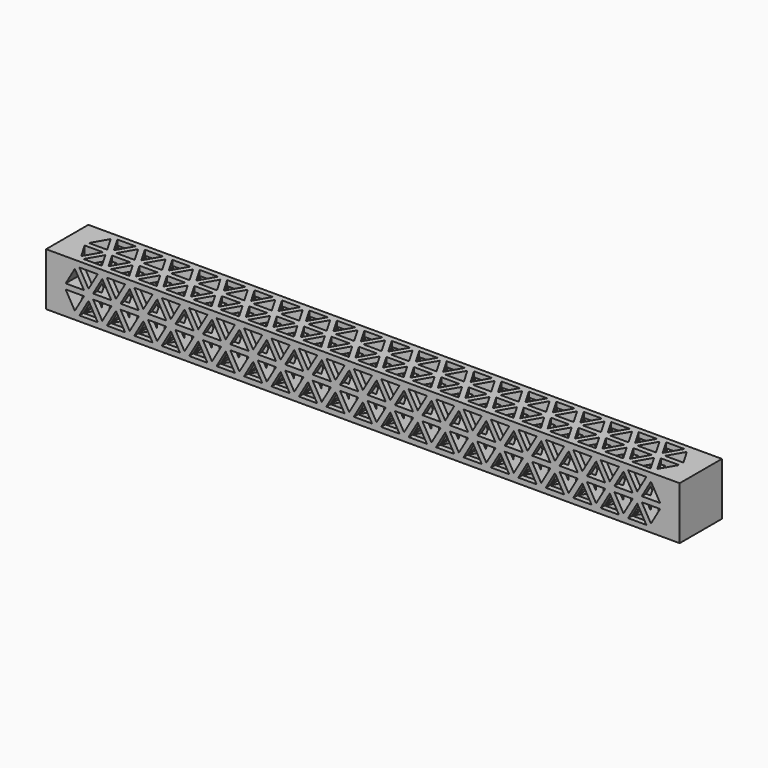
from build123d import *

# Parameters (mm, degrees)
F0_W     = 25.4
F0_H     = 25.4
F1_DEPTH = 152.4
F3_DEPTH = 25.401
F4_DEPTH = 25.4
F5_ANGLE = -90


with BuildPart() as f1:
    # F0 (on Right) → F1 (new body, symmetric)
    with BuildSketch(Plane.YZ):
        Rectangle(F0_W, F0_H)
    extrude(amount=F1_DEPTH, both=True)

    # F2 (on face) → F3 (cut, through all)
    with BuildSketch(Plane.XZ.offset(12.7)):
        Polygon((-10.9985226281, -1.27), (-6.5991135768, -8.89), (-2.1997045256, -1.27), align=None)
        Polygon((4.3994090512, 10.16), (-4.3994090512, 10.16), (0, 2.54), align=None)
        Polygon((10.9985226281, 1.27), (6.5991135768, 8.89), (2.1997045256, 1.27), align=None)
        Polygon((-6.5991135768, 8.89), (-10.9985226281, 1.27), (-2.1997045256, 1.27), align=None)
        Polygon((6.5991135768, -8.89), (10.9985226281, -1.27), (2.1997045256, -1.27), align=None)
        Polygon((-4.3994090512, -10.16), (4.3994090512, -10.16), (0, -2.54), align=None)
        Polygon((-19.7973407305, 8.89), (-24.1967497817, 1.27), (-15.3979316793, 1.27), align=None)
        Polygon((-19.7973407305, -8.89), (-15.3979316793, -1.27), (-24.1967497817, -1.27), align=None)
        Polygon((-8.7988181024, -10.16), (-13.1982271537, -2.54), (-17.5976362049, -10.16), align=None)
        Polygon((-13.1982271537, 2.54), (-8.7988181024, 10.16), (-17.5976362049, 10.16), align=None)
        Polygon((-32.9955678842, 8.89), (-37.3949769354, 1.27), (-28.596158833, 1.27), align=None)
        Polygon((-32.9955678842, -8.89), (-28.596158833, -1.27), (-37.3949769354, -1.27), align=None)
        Polygon((-21.9970452561, -10.16), (-26.3964543073, -2.54), (-30.7958633586, -10.16), align=None)
        Polygon((-26.3964543073, 2.54), (-21.9970452561, 10.16), (-30.7958633586, 10.16), align=None)
        Polygon((-46.1937950379, 8.89), (-50.5932040891, 1.27), (-41.7943859866, 1.27), align=None)
        Polygon((-46.1937950379, -8.89), (-41.7943859866, -1.27), (-50.5932040891, -1.27), align=None)
        Polygon((-35.1952724098, -10.16), (-39.594681461, -2.54), (-43.9940905122, -10.16), align=None)
        Polygon((-39.594681461, 2.54), (-35.1952724098, 10.16), (-43.9940905122, 10.16), align=None)
        Polygon((-59.3920221915, 8.89), (-63.7914312428, 1.27), (-54.9926131403, 1.27), align=None)
        Polygon((-59.3920221915, -8.89), (-54.9926131403, -1.27), (-63.7914312428, -1.27), align=None)
        Polygon((-48.3934995635, -10.16), (-52.7929086147, -2.54), (-57.1923176659, -10.16), align=None)
        Polygon((-52.7929086147, 2.54), (-48.3934995635, 10.16), (-57.1923176659, 10.16), align=None)
        Polygon((-72.5902493452, 8.89), (-76.9896583964, 1.27), (-68.190840294, 1.27), align=None)
        Polygon((-72.5902493452, -8.89), (-68.190840294, -1.27), (-76.9896583964, -1.27), align=None)
        Polygon((-61.5917267171, -10.16), (-65.9911357684, -2.54), (-70.3905448196, -10.16), align=None)
        Polygon((-65.9911357684, 2.54), (-61.5917267171, 10.16), (-70.3905448196, 10.16), align=None)
        Polygon((-85.7884764989, 8.89), (-90.1878855501, 1.27), (-81.3890674477, 1.27), align=None)
        Polygon((-85.7884764989, -8.89), (-81.3890674477, -1.27), (-90.1878855501, -1.27), align=None)
        Polygon((-74.7899538708, -10.16), (-79.189362922, -2.54), (-83.5887719733, -10.16), align=None)
        Polygon((-79.189362922, 2.54), (-74.7899538708, 10.16), (-83.5887719733, 10.16), align=None)
        Polygon((-98.9867036526, 8.89), (-103.3861127038, 1.27), (-94.5872946013, 1.27), align=None)
        Polygon((-98.9867036526, -8.89), (-94.5872946013, -1.27), (-103.3861127038, -1.27), align=None)
        Polygon((-87.9881810245, -10.16), (-92.3875900757, -2.54), (-96.7869991269, -10.16), align=None)
        Polygon((-92.3875900757, 2.54), (-87.9881810245, 10.16), (-96.7869991269, 10.16), align=None)
        Polygon((-112.1849308062, 8.89), (-116.5843398575, 1.27), (-107.785521755, 1.27), align=None)
        Polygon((-112.1849308062, -8.89), (-107.785521755, -1.27), (-116.5843398575, -1.27), align=None)
        Polygon((-101.1864081782, -10.16), (-105.5858172294, -2.54), (-109.9852262806, -10.16), align=None)
        Polygon((-105.5858172294, 2.54), (-101.1864081782, 10.16), (-109.9852262806, 10.16), align=None)
        Polygon((-125.3831579599, 8.89), (-129.7825670111, 1.27), (-120.9837489087, 1.27), align=None)
        Polygon((-125.3831579599, -8.89), (-120.9837489087, -1.27), (-129.7825670111, -1.27), align=None)
        Polygon((-114.3846353318, -10.16), (-118.7840443831, -2.54), (-123.1834534343, -10.16), align=None)
        Polygon((-118.7840443831, 2.54), (-114.3846353318, 10.16), (-123.1834534343, 10.16), align=None)
        Polygon((-138.5813851136, 8.89), (-142.9807941648, 1.27), (-134.1819760624, 1.27), align=None)
        Polygon((-138.5813851136, -8.89), (-134.1819760624, -1.27), (-142.9807941648, -1.27), align=None)
        Polygon((-127.5828624855, -10.16), (-131.9822715367, -2.54), (-136.381680588, -10.16), align=None)
        Polygon((-131.9822715367, 2.54), (-127.5828624855, 10.16), (-136.381680588, 10.16), align=None)
        Polygon((17.5976362049, 10.16), (8.7988181024, 10.16), (13.1982271537, 2.54), align=None)
        Polygon((17.5976362049, -10.16), (13.1982271537, -2.54), (8.7988181024, -10.16), align=None)
        Polygon((19.7973407305, -8.89), (24.1967497817, -1.27), (15.3979316793, -1.27), align=None)
        Polygon((19.7973407305, 8.89), (15.3979316793, 1.27), (24.1967497817, 1.27), align=None)
        Polygon((30.7958633586, 10.16), (21.9970452561, 10.16), (26.3964543073, 2.54), align=None)
        Polygon((30.7958633586, -10.16), (26.3964543073, -2.54), (21.9970452561, -10.16), align=None)
        Polygon((32.9955678842, -8.89), (37.3949769354, -1.27), (28.596158833, -1.27), align=None)
        Polygon((32.9955678842, 8.89), (28.596158833, 1.27), (37.3949769354, 1.27), align=None)
        Polygon((43.9940905122, 10.16), (35.1952724098, 10.16), (39.594681461, 2.54), align=None)
        Polygon((43.9940905122, -10.16), (39.594681461, -2.54), (35.1952724098, -10.16), align=None)
        Polygon((46.1937950379, -8.89), (50.5932040891, -1.27), (41.7943859866, -1.27), align=None)
        Polygon((46.1937950379, 8.89), (41.7943859866, 1.27), (50.5932040891, 1.27), align=None)
        Polygon((57.1923176659, 10.16), (48.3934995635, 10.16), (52.7929086147, 2.54), align=None)
        Polygon((57.1923176659, -10.16), (52.7929086147, -2.54), (48.3934995635, -10.16), align=None)
        Polygon((59.3920221915, -8.89), (63.7914312428, -1.27), (54.9926131403, -1.27), align=None)
        Polygon((59.3920221915, 8.89), (54.9926131403, 1.27), (63.7914312428, 1.27), align=None)
        Polygon((70.3905448196, 10.16), (61.5917267171, 10.16), (65.9911357684, 2.54), align=None)
        Polygon((70.3905448196, -10.16), (65.9911357684, -2.54), (61.5917267171, -10.16), align=None)
        Polygon((72.5902493452, -8.89), (76.9896583964, -1.27), (68.190840294, -1.27), align=None)
        Polygon((72.5902493452, 8.89), (68.190840294, 1.27), (76.9896583964, 1.27), align=None)
        Polygon((83.5887719733, 10.16), (74.7899538708, 10.16), (79.189362922, 2.54), align=None)
        Polygon((83.5887719733, -10.16), (79.189362922, -2.54), (74.7899538708, -10.16), align=None)
        Polygon((85.7884764989, -8.89), (90.1878855501, -1.27), (81.3890674477, -1.27), align=None)
        Polygon((85.7884764989, 8.89), (81.3890674477, 1.27), (90.1878855501, 1.27), align=None)
        Polygon((96.7869991269, 10.16), (87.9881810245, 10.16), (92.3875900757, 2.54), align=None)
        Polygon((96.7869991269, -10.16), (92.3875900757, -2.54), (87.9881810245, -10.16), align=None)
        Polygon((98.9867036526, -8.89), (103.3861127038, -1.27), (94.5872946013, -1.27), align=None)
        Polygon((98.9867036526, 8.89), (94.5872946013, 1.27), (103.3861127038, 1.27), align=None)
        Polygon((109.9852262806, 10.16), (101.1864081782, 10.16), (105.5858172294, 2.54), align=None)
        Polygon((109.9852262806, -10.16), (105.5858172294, -2.54), (101.1864081782, -10.16), align=None)
        Polygon((112.1849308062, -8.89), (116.5843398575, -1.27), (107.785521755, -1.27), align=None)
        Polygon((112.1849308062, 8.89), (107.785521755, 1.27), (116.5843398575, 1.27), align=None)
        Polygon((123.1834534343, 10.16), (114.3846353318, 10.16), (118.7840443831, 2.54), align=None)
        Polygon((123.1834534343, -10.16), (118.7840443831, -2.54), (114.3846353318, -10.16), align=None)
        Polygon((125.3831579599, -8.89), (129.7825670111, -1.27), (120.9837489087, -1.27), align=None)
        Polygon((125.3831579599, 8.89), (120.9837489087, 1.27), (129.7825670111, 1.27), align=None)
        Polygon((136.381680588, 10.16), (127.5828624855, 10.16), (131.9822715367, 2.54), align=None)
        Polygon((136.381680588, -10.16), (131.9822715367, -2.54), (127.5828624855, -10.16), align=None)
        Polygon((138.5813851136, -8.89), (142.9807941648, -1.27), (134.1819760624, -1.27), align=None)
        Polygon((138.5813851136, 8.89), (134.1819760624, 1.27), (142.9807941648, 1.27), align=None)
    extrude(amount=-F3_DEPTH, mode=Mode.SUBTRACT)


with BuildPart() as f4:
    # F2 (on face) → F4 (new body)
    with BuildSketch(Plane.XZ.offset(12.7)):
        Polygon((-10.9985226281, -1.27), (-6.5991135768, -8.89), (-2.1997045256, -1.27), align=None)
        Polygon((4.3994090512, 10.16), (-4.3994090512, 10.16), (0, 2.54), align=None)
        Polygon((10.9985226281, 1.27), (6.5991135768, 8.89), (2.1997045256, 1.27), align=None)
        Polygon((-6.5991135768, 8.89), (-10.9985226281, 1.27), (-2.1997045256, 1.27), align=None)
        Polygon((6.5991135768, -8.89), (10.9985226281, -1.27), (2.1997045256, -1.27), align=None)
        Polygon((-4.3994090512, -10.16), (4.3994090512, -10.16), (0, -2.54), align=None)
        Polygon((-19.7973407305, 8.89), (-24.1967497817, 1.27), (-15.3979316793, 1.27), align=None)
        Polygon((-19.7973407305, -8.89), (-15.3979316793, -1.27), (-24.1967497817, -1.27), align=None)
        Polygon((-8.7988181024, -10.16), (-13.1982271537, -2.54), (-17.5976362049, -10.16), align=None)
        Polygon((-13.1982271537, 2.54), (-8.7988181024, 10.16), (-17.5976362049, 10.16), align=None)
        Polygon((-32.9955678842, 8.89), (-37.3949769354, 1.27), (-28.596158833, 1.27), align=None)
        Polygon((-32.9955678842, -8.89), (-28.596158833, -1.27), (-37.3949769354, -1.27), align=None)
        Polygon((-21.9970452561, -10.16), (-26.3964543073, -2.54), (-30.7958633586, -10.16), align=None)
        Polygon((-26.3964543073, 2.54), (-21.9970452561, 10.16), (-30.7958633586, 10.16), align=None)
        Polygon((-46.1937950379, 8.89), (-50.5932040891, 1.27), (-41.7943859866, 1.27), align=None)
        Polygon((-46.1937950379, -8.89), (-41.7943859866, -1.27), (-50.5932040891, -1.27), align=None)
        Polygon((-35.1952724098, -10.16), (-39.594681461, -2.54), (-43.9940905122, -10.16), align=None)
        Polygon((-39.594681461, 2.54), (-35.1952724098, 10.16), (-43.9940905122, 10.16), align=None)
        Polygon((-59.3920221915, 8.89), (-63.7914312428, 1.27), (-54.9926131403, 1.27), align=None)
        Polygon((-59.3920221915, -8.89), (-54.9926131403, -1.27), (-63.7914312428, -1.27), align=None)
        Polygon((-48.3934995635, -10.16), (-52.7929086147, -2.54), (-57.1923176659, -10.16), align=None)
        Polygon((-52.7929086147, 2.54), (-48.3934995635, 10.16), (-57.1923176659, 10.16), align=None)
        Polygon((-72.5902493452, 8.89), (-76.9896583964, 1.27), (-68.190840294, 1.27), align=None)
        Polygon((-72.5902493452, -8.89), (-68.190840294, -1.27), (-76.9896583964, -1.27), align=None)
        Polygon((-61.5917267171, -10.16), (-65.9911357684, -2.54), (-70.3905448196, -10.16), align=None)
        Polygon((-65.9911357684, 2.54), (-61.5917267171, 10.16), (-70.3905448196, 10.16), align=None)
        Polygon((-85.7884764989, 8.89), (-90.1878855501, 1.27), (-81.3890674477, 1.27), align=None)
        Polygon((-85.7884764989, -8.89), (-81.3890674477, -1.27), (-90.1878855501, -1.27), align=None)
        Polygon((-74.7899538708, -10.16), (-79.189362922, -2.54), (-83.5887719733, -10.16), align=None)
        Polygon((-79.189362922, 2.54), (-74.7899538708, 10.16), (-83.5887719733, 10.16), align=None)
        Polygon((-98.9867036526, 8.89), (-103.3861127038, 1.27), (-94.5872946013, 1.27), align=None)
        Polygon((-98.9867036526, -8.89), (-94.5872946013, -1.27), (-103.3861127038, -1.27), align=None)
        Polygon((-87.9881810245, -10.16), (-92.3875900757, -2.54), (-96.7869991269, -10.16), align=None)
        Polygon((-92.3875900757, 2.54), (-87.9881810245, 10.16), (-96.7869991269, 10.16), align=None)
        Polygon((-112.1849308062, 8.89), (-116.5843398575, 1.27), (-107.785521755, 1.27), align=None)
        Polygon((-112.1849308062, -8.89), (-107.785521755, -1.27), (-116.5843398575, -1.27), align=None)
        Polygon((-101.1864081782, -10.16), (-105.5858172294, -2.54), (-109.9852262806, -10.16), align=None)
        Polygon((-105.5858172294, 2.54), (-101.1864081782, 10.16), (-109.9852262806, 10.16), align=None)
        Polygon((-125.3831579599, 8.89), (-129.7825670111, 1.27), (-120.9837489087, 1.27), align=None)
        Polygon((-125.3831579599, -8.89), (-120.9837489087, -1.27), (-129.7825670111, -1.27), align=None)
        Polygon((-114.3846353318, -10.16), (-118.7840443831, -2.54), (-123.1834534343, -10.16), align=None)
        Polygon((-118.7840443831, 2.54), (-114.3846353318, 10.16), (-123.1834534343, 10.16), align=None)
        Polygon((-138.5813851136, 8.89), (-142.9807941648, 1.27), (-134.1819760624, 1.27), align=None)
        Polygon((-138.5813851136, -8.89), (-134.1819760624, -1.27), (-142.9807941648, -1.27), align=None)
        Polygon((-127.5828624855, -10.16), (-131.9822715367, -2.54), (-136.381680588, -10.16), align=None)
        Polygon((-131.9822715367, 2.54), (-127.5828624855, 10.16), (-136.381680588, 10.16), align=None)
        Polygon((17.5976362049, 10.16), (8.7988181024, 10.16), (13.1982271537, 2.54), align=None)
        Polygon((17.5976362049, -10.16), (13.1982271537, -2.54), (8.7988181024, -10.16), align=None)
        Polygon((19.7973407305, -8.89), (24.1967497817, -1.27), (15.3979316793, -1.27), align=None)
        Polygon((19.7973407305, 8.89), (15.3979316793, 1.27), (24.1967497817, 1.27), align=None)
        Polygon((30.7958633586, 10.16), (21.9970452561, 10.16), (26.3964543073, 2.54), align=None)
        Polygon((30.7958633586, -10.16), (26.3964543073, -2.54), (21.9970452561, -10.16), align=None)
        Polygon((32.9955678842, -8.89), (37.3949769354, -1.27), (28.596158833, -1.27), align=None)
        Polygon((32.9955678842, 8.89), (28.596158833, 1.27), (37.3949769354, 1.27), align=None)
        Polygon((43.9940905122, 10.16), (35.1952724098, 10.16), (39.594681461, 2.54), align=None)
        Polygon((43.9940905122, -10.16), (39.594681461, -2.54), (35.1952724098, -10.16), align=None)
        Polygon((46.1937950379, -8.89), (50.5932040891, -1.27), (41.7943859866, -1.27), align=None)
        Polygon((46.1937950379, 8.89), (41.7943859866, 1.27), (50.5932040891, 1.27), align=None)
        Polygon((57.1923176659, 10.16), (48.3934995635, 10.16), (52.7929086147, 2.54), align=None)
        Polygon((57.1923176659, -10.16), (52.7929086147, -2.54), (48.3934995635, -10.16), align=None)
        Polygon((59.3920221915, -8.89), (63.7914312428, -1.27), (54.9926131403, -1.27), align=None)
        Polygon((59.3920221915, 8.89), (54.9926131403, 1.27), (63.7914312428, 1.27), align=None)
        Polygon((70.3905448196, 10.16), (61.5917267171, 10.16), (65.9911357684, 2.54), align=None)
        Polygon((70.3905448196, -10.16), (65.9911357684, -2.54), (61.5917267171, -10.16), align=None)
        Polygon((72.5902493452, -8.89), (76.9896583964, -1.27), (68.190840294, -1.27), align=None)
        Polygon((72.5902493452, 8.89), (68.190840294, 1.27), (76.9896583964, 1.27), align=None)
        Polygon((83.5887719733, 10.16), (74.7899538708, 10.16), (79.189362922, 2.54), align=None)
        Polygon((83.5887719733, -10.16), (79.189362922, -2.54), (74.7899538708, -10.16), align=None)
        Polygon((85.7884764989, -8.89), (90.1878855501, -1.27), (81.3890674477, -1.27), align=None)
        Polygon((85.7884764989, 8.89), (81.3890674477, 1.27), (90.1878855501, 1.27), align=None)
        Polygon((96.7869991269, 10.16), (87.9881810245, 10.16), (92.3875900757, 2.54), align=None)
        Polygon((96.7869991269, -10.16), (92.3875900757, -2.54), (87.9881810245, -10.16), align=None)
        Polygon((98.9867036526, -8.89), (103.3861127038, -1.27), (94.5872946013, -1.27), align=None)
        Polygon((98.9867036526, 8.89), (94.5872946013, 1.27), (103.3861127038, 1.27), align=None)
        Polygon((109.9852262806, 10.16), (101.1864081782, 10.16), (105.5858172294, 2.54), align=None)
        Polygon((109.9852262806, -10.16), (105.5858172294, -2.54), (101.1864081782, -10.16), align=None)
        Polygon((112.1849308062, -8.89), (116.5843398575, -1.27), (107.785521755, -1.27), align=None)
        Polygon((112.1849308062, 8.89), (107.785521755, 1.27), (116.5843398575, 1.27), align=None)
        Polygon((123.1834534343, 10.16), (114.3846353318, 10.16), (118.7840443831, 2.54), align=None)
        Polygon((123.1834534343, -10.16), (118.7840443831, -2.54), (114.3846353318, -10.16), align=None)
        Polygon((125.3831579599, -8.89), (129.7825670111, -1.27), (120.9837489087, -1.27), align=None)
        Polygon((125.3831579599, 8.89), (120.9837489087, 1.27), (129.7825670111, 1.27), align=None)
        Polygon((136.381680588, 10.16), (127.5828624855, 10.16), (131.9822715367, 2.54), align=None)
        Polygon((136.381680588, -10.16), (131.9822715367, -2.54), (127.5828624855, -10.16), align=None)
        Polygon((138.5813851136, -8.89), (142.9807941648, -1.27), (134.1819760624, -1.27), align=None)
        Polygon((138.5813851136, 8.89), (134.1819760624, 1.27), (142.9807941648, 1.27), align=None)
    extrude(amount=F4_DEPTH)


with BuildPart() as f4_1:
    # F5: moved
    add(f4.part.rotate(Axis((0, -12.7, 12.7), (-1, 0, 0)), F5_ANGLE))


with BuildPart() as f1_1:
    add(f1.part)

    # F6: cut F4
    add(f4_1.part, mode=Mode.SUBTRACT)


solid = f1_1.part
